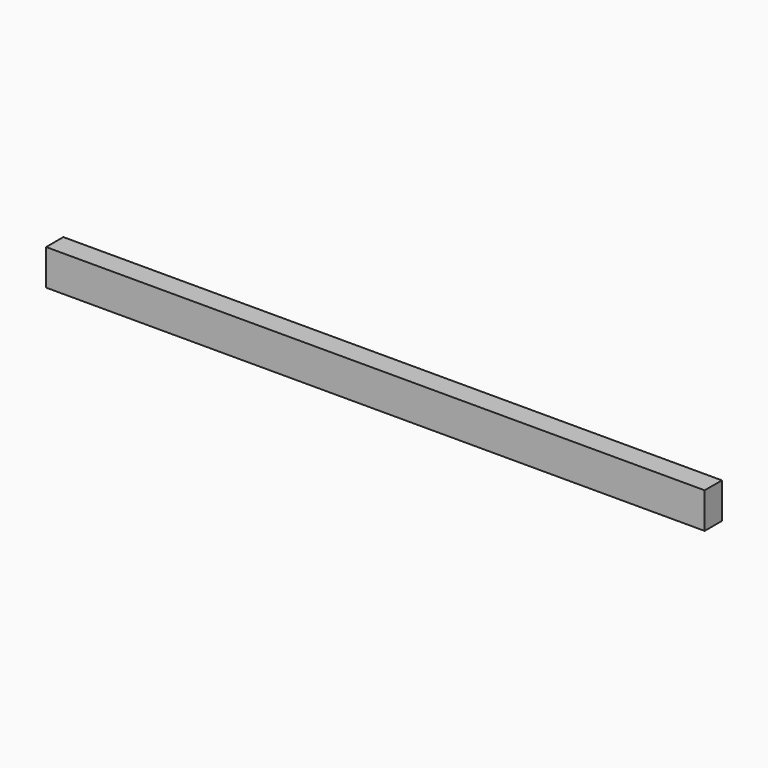
from build123d import *

# Parameters (mm, degrees)
SKETCH_W  = 38
SKETCH_H  = 63
PAD_DEPTH = 580


with BuildPart() as part:
    # Sketch → Pad (new body, symmetric)
    with BuildSketch(Plane.YZ):
        Rectangle(SKETCH_W, SKETCH_H)
    extrude(amount=PAD_DEPTH, both=True)


solid = part.part
